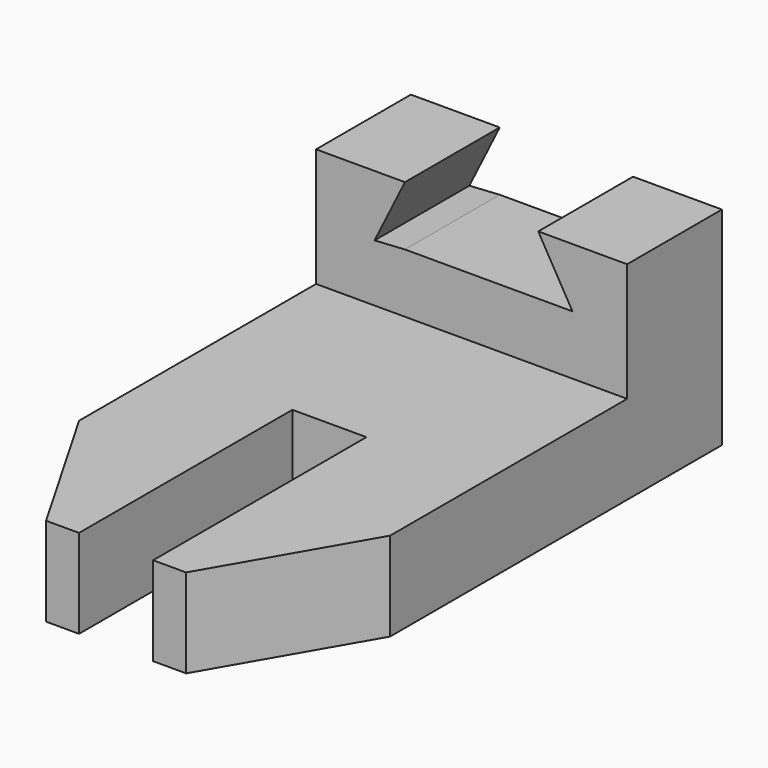
from build123d import *

# Parameters (mm, degrees)
F1_DEPTH = 19.05
F0_W     = 28.575
F0_H     = 25.4
F2_DEPTH = 31.75
F0_W_2   = 19.05
F3_DEPTH = 44.45
F5_DEPTH = 25.401


with BuildPart() as f1:
    # F0 (on Top) → F1 (new body)
    with BuildSketch(Plane.XY):
        Polygon((-20.6530114731, 37.4838656797), (-39.7030114731, 37.4838656797), (-39.7030114731, -26.0161343203), (-21.3721404263, -57.7661343203), (-14.3030114731, -57.7661343203), (-14.3030114731, -0.6161343203), (1.5719885269, -0.6161343203), (1.5719885269, -57.7661343203), (8.6411174801, -57.7661343203), (26.9719885269, -26.0161343203), (26.9719885269, 37.4838656797), (7.9219885269, 37.4838656797), align=None)
    extrude(amount=F1_DEPTH)

    # F0 (on Top) → F2 (join)
    with BuildSketch(Plane.XY):
        with Locations((-6.3655114731, 50.1838656797)):
            Rectangle(F0_W, F0_H)
    extrude(amount=F2_DEPTH)

    # F0 (on Top) → F3 (join)
    with BuildSketch(Plane.XY):
        with Locations((-30.1780114731, 50.1838656797)):
            Rectangle(F0_W_2, F0_H)
        with Locations((17.4469885269, 50.1838656797)):
            Rectangle(F0_W_2, F0_H)
    extrude(amount=F3_DEPTH)

    # F4 (on face) → F5 (cut, through all)
    with BuildSketch(Plane.XZ.offset(-37.4838656797)):
        Polygon((-20.6530114731, 31.75), (-20.6530114731, 44.45), (-27.1653852305, 31.342598024), align=None)
        Polygon((7.9219885269, 44.45), (7.9219885269, 31.75), (15.2543369456, 31.75), align=None)
    extrude(amount=-F5_DEPTH, mode=Mode.SUBTRACT)


solid = f1.part
